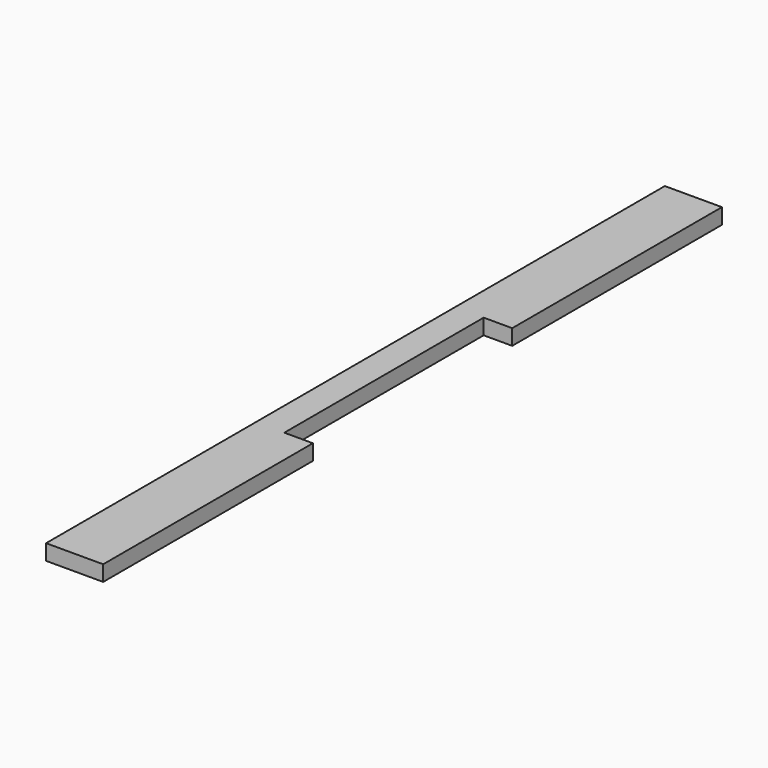
from build123d import *

# Parameters (mm, degrees)
F0_W     = 139.7
F0_H     = 38.1
F1_DEPTH = 946.15
F2_W     = 139.7
F2_H     = 609.6
F3_DEPTH = 38.101


with BuildPart() as f1:
    # F0 (on Front) → F1 (new body, symmetric)
    with BuildSketch(Plane.XZ):
        Rectangle(F0_W, F0_H)
    extrude(amount=F1_DEPTH, both=True)

    # F2 (on face) → F3 (cut, through all)
    with BuildSketch(Plane.XY.offset(19.05)):
        with Locations((69.85, 0)):
            Rectangle(F2_W, F2_H)
    extrude(amount=-F3_DEPTH, mode=Mode.SUBTRACT)


solid = f1.part
